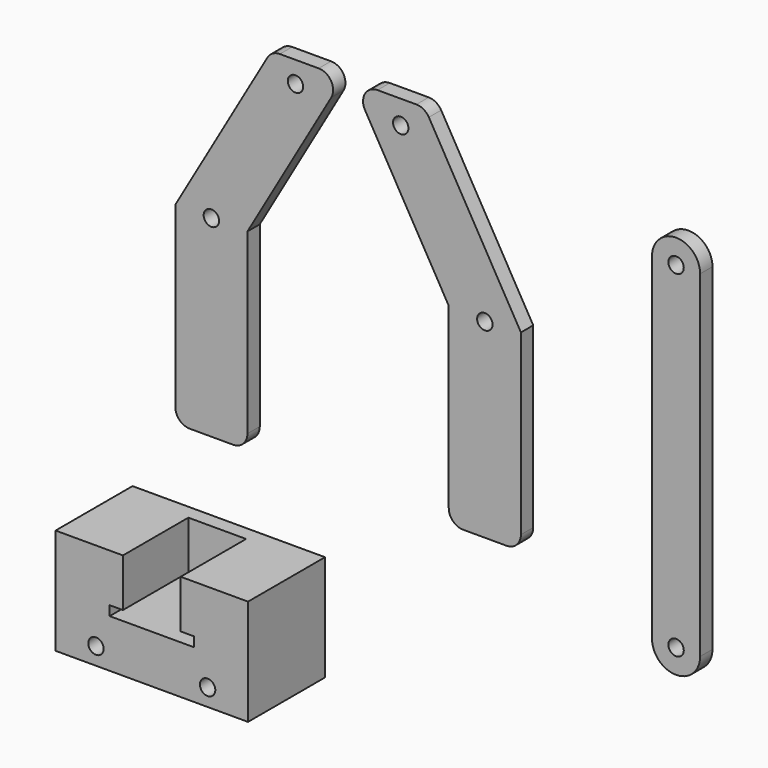
from build123d import *

# Parameters (mm, degrees)
F0_R     = 1.6
F1_DEPTH = 3.2
F2_R     = 3
F2_2_R   = 3
F4_DEPTH = 3.2
F5_R     = 1.6
F6_DEPTH = 20
F5_W     = 12
F5_H     = 10
F7_DEPTH = 3


with BuildPart() as f1:
    # F0 (on Front) → F1 (new body)
    with BuildSketch(Plane.XZ):
        Polygon((19.8803772032, 0), (-0.1196227968, 34.6410161514), (-15.1196227968, 34.6410161514), (4.8803772032, 0), (4.8803772032, -40), (19.8803772032, -40), align=None)
        with Locations((12.3803772032, -0.4804348946)):
            Circle(F0_R, mode=Mode.SUBTRACT)
        with Locations((-5.0952010679, 29.748256281)):
            Circle(F0_R, mode=Mode.SUBTRACT)
    extrude(amount=F1_DEPTH)

    # F2#2
    f2_2_edges = [f1.edges().sort_by_distance(p)[0] for p in [
        (19.880377, -1.6, -40),
        (4.880377, -1.6, -40),
        (-15.119623, -1.6, 34.641016),
        (-0.119623, -1.6, 34.641016),
    ]]
    fillet(f2_2_edges, radius=F2_2_R)


with BuildPart() as f1b:
    # F0 (on Front) → F1, piece 2 (new body)
    with BuildSketch(Plane.XZ):
        Polygon((-31.9494143951, 34.6410161514), (-51.9494143951, 0), (-51.9494143951, -40), (-36.9494143951, -40), (-36.9494143951, 0), (-16.9494143951, 34.6410161514), align=None)
        with Locations((-44.4494143951, 0)):
            Circle(F0_R, mode=Mode.SUBTRACT)
        with Locations((-26.9738361239, 30.2286911756)):
            Circle(F0_R, mode=Mode.SUBTRACT)
    extrude(amount=F1_DEPTH)

    # F2
    f2_edges = [f1b.edges().sort_by_distance(p)[0] for p in [
        (-51.949414, -1.6, -40),
        (-36.949414, -1.6, -40),
        (-31.949414, -1.6, 34.641016),
        (-16.949414, -1.6, 34.641016),
    ]]
    fillet(f2_edges, radius=F2_R)


with BuildPart() as f4:
    # F3 (on Front) → F4 (new body)
    with BuildSketch(Plane.XZ):
        with BuildLine():
            ThreePointArc((50.5249999851, 22.8307303157), (52.1249999851, 24.4307303157), (53.7249999851, 22.8307303157))
            Line((53.7249999851, 22.8307303157), (57.1249999851, 22.8307303157))
            ThreePointArc((57.1249999851, 22.8307303157), (52.1249999851, 27.8307303157), (47.1249999851, 22.8307303157))
            Line((47.1249999851, 22.8307303157), (50.5249999851, 22.8307303157))
        make_face()
        with BuildLine():
            Line((57.1249999851, 22.8307303157), (53.7249999851, 22.8307303157))
            ThreePointArc((53.7249999851, 22.8307303157), (52.1249999851, 21.2307303157), (50.5249999851, 22.8307303157))
            Line((50.5249999851, 22.8307303157), (47.1249999851, 22.8307303157))
            ThreePointArc((47.1249999851, 22.8307303157), (52.1249999851, 17.8307303157), (57.1249999851, 22.8307303157))
        make_face()
        with BuildLine():
            Line((57.1249999851, -47.1692696843), (57.1249999851, 22.8307303157))
            ThreePointArc((57.1249999851, 22.8307303157), (52.1249999851, 17.8307303157), (47.1249999851, 22.8307303157))
            Line((47.1249999851, 22.8307303157), (47.1249999851, -47.1692696843))
            ThreePointArc((47.1249999851, -47.1692696843), (52.1249999851, -42.1692696843), (57.1249999851, -47.1692696843))
        make_face()
        with BuildLine():
            ThreePointArc((47.1249999851, -47.1692696843), (52.1249999851, -52.1692696843), (57.1249999851, -47.1692696843))
            Line((57.1249999851, -47.1692696843), (53.7249999851, -47.1692696843))
            ThreePointArc((53.7249999851, -47.1692696843), (52.1249999851, -48.7692696843), (50.5249999851, -47.1692696843))
            Line((50.5249999851, -47.1692696843), (47.1249999851, -47.1692696843))
        make_face()
        with BuildLine():
            Line((53.7249999851, -47.1692696843), (57.1249999851, -47.1692696843))
            ThreePointArc((57.1249999851, -47.1692696843), (52.1249999851, -42.1692696843), (47.1249999851, -47.1692696843))
            Line((47.1249999851, -47.1692696843), (50.5249999851, -47.1692696843))
            ThreePointArc((50.5249999851, -47.1692696843), (52.1249999851, -45.5692696843), (53.7249999851, -47.1692696843))
        make_face()
    extrude(amount=F4_DEPTH)


with BuildPart() as f6:
    # F5 (on Front) → F6 (new body)
    with BuildSketch(Plane.XZ):
        Polygon((-49.3939027905, -56.4967670194), (-63.3939027905, -56.4967670194), (-63.3939027905, -78.5043969103), (-23.3939027905, -78.5043969103), (-23.3939027905, -56.4967670194), (-37.3939027905, -56.4967670194), (-37.3939027905, -66.4967670194), (-34.6439027905, -66.4967670194), (-34.6439027905, -68.4967670194), (-52.1439027905, -68.4967670194), (-52.1439027905, -66.4967670194), (-49.3939027905, -66.4967670194), align=None)
        with Locations((-54.9939027905, -74.9043969103)):
            Circle(F5_R, mode=Mode.SUBTRACT)
        with Locations((-31.7939027905, -74.9043969103)):
            Circle(F5_R, mode=Mode.SUBTRACT)
    extrude(amount=F6_DEPTH)

    # F5 (on Front) → F7 (join)
    with BuildSketch(Plane.XZ):
        with Locations((-43.3939027905, -61.4967670194)):
            Rectangle(F5_W, F5_H)
    extrude(amount=F7_DEPTH)


solid = Compound([f1.part, f1b.part, f4.part, f6.part])
